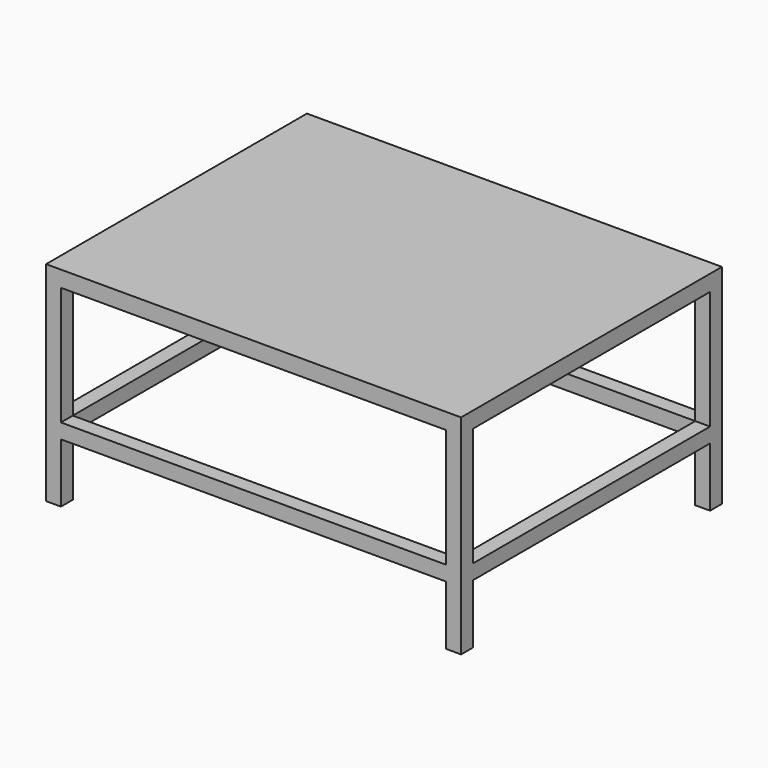
from build123d import *

# Parameters (mm, degrees)
F0_W      = 140
F0_H      = 110
F1_DEPTH  = 0.4
F2_W      = 5
F2_H      = 5
F3_DEPTH  = 70
F4_W      = 130
F4_H      = 5
F4_W_2    = 5
F4_H_2    = 100
F5_DEPTH  = 5
F6_W      = 130
F6_H      = 100
F7_DEPTH  = 5
F8_W      = 5
F8_H      = 47.5
F8_W_2    = 62.5
F8_H_2    = 5
F9_DEPTH  = 5
F10_W     = 130
F10_H     = 5
F11_DEPTH = 5
F12_W     = 100
F12_H     = 5
F13_DEPTH = 5
F14_W     = 100
F14_H     = 5
F15_DEPTH = 5
F16_W     = 130
F16_H     = 5
F17_DEPTH = 5


with BuildPart() as f1:
    # F0 (on Top) → F1 (new body)
    with BuildSketch(Plane.XY):
        Rectangle(F0_W, F0_H)
    extrude(amount=F1_DEPTH)

    # F2 (on face) → F3 (join)
    with BuildSketch(Plane(origin=(0, 0, 0), x_dir=(1, 0, 0), z_dir=(0, 0, -1))):
        with Locations((-67.5, 52.5)):
            Rectangle(F2_W, F2_H)
        with Locations((-67.5, -52.5)):
            Rectangle(F2_W, F2_H)
        with Locations((67.5, 52.5)):
            Rectangle(F2_W, F2_H)
        with Locations((67.5, -52.5)):
            Rectangle(F2_W, F2_H)
    extrude(amount=F3_DEPTH)

    # F4 (on face) → F5 (join)
    with BuildSketch(Plane(origin=(0, 0, 0), x_dir=(1, 0, 0), z_dir=(0, 0, -1))):
        with Locations((0, 52.5)):
            Rectangle(F4_W, F4_H)
        with Locations((-67.5, 0)):
            Rectangle(F4_W_2, F4_H_2)
        Rectangle(F4_W, F4_H_2)
        with Locations((67.5, 0)):
            Rectangle(F4_W_2, F4_H_2)
        with Locations((0, -52.5)):
            Rectangle(F4_W, F4_H)
    extrude(amount=F5_DEPTH)

    # F6 (on face) → F7 (cut)
    with BuildSketch(Plane(origin=(0, 0, -5), x_dir=(1, 0, 0), z_dir=(0, 0, -1))):
        Rectangle(F6_W, F6_H)
    extrude(amount=-F7_DEPTH, mode=Mode.SUBTRACT)

    # F8 (on face) → F9 (join)
    with BuildSketch(Plane(origin=(0, 0, 0), x_dir=(1, 0, 0), z_dir=(0, 0, -1))):
        with Locations((0, 26.25)):
            Rectangle(F8_W, F8_H)
        with Locations((33.75, 0)):
            Rectangle(F8_W_2, F8_H_2)
        Rectangle(F8_W, F8_H_2)
        with Locations((-33.75, 0)):
            Rectangle(F8_W_2, F8_H_2)
        with Locations((0, -26.25)):
            Rectangle(F8_W, F8_H)
    extrude(amount=F9_DEPTH)

    # F10 (on face) → F11 (join)
    with BuildSketch(Plane.XZ.offset(55)):
        with Locations((0, -47.5)):
            Rectangle(F10_W, F10_H)
    extrude(amount=-F11_DEPTH)

    # F12 (on face) → F13 (join)
    with BuildSketch(Plane.YZ.offset(70)):
        with Locations((0, -47.5)):
            Rectangle(F12_W, F12_H)
    extrude(amount=-F13_DEPTH)

    # F14 (on face) → F15 (join)
    with BuildSketch(Plane(origin=(-70, 0, 0), x_dir=(0, -1, 0), z_dir=(-1, 0, 0))):
        with Locations((0, -47.5)):
            Rectangle(F14_W, F14_H)
    extrude(amount=-F15_DEPTH)

    # F16 (on face) → F17 (join)
    with BuildSketch(Plane(origin=(0, 55, 0), x_dir=(-1, 0, 0), z_dir=(0, 1, 0))):
        with Locations((0, -47.5)):
            Rectangle(F16_W, F16_H)
    extrude(amount=-F17_DEPTH)


solid = f1.part
